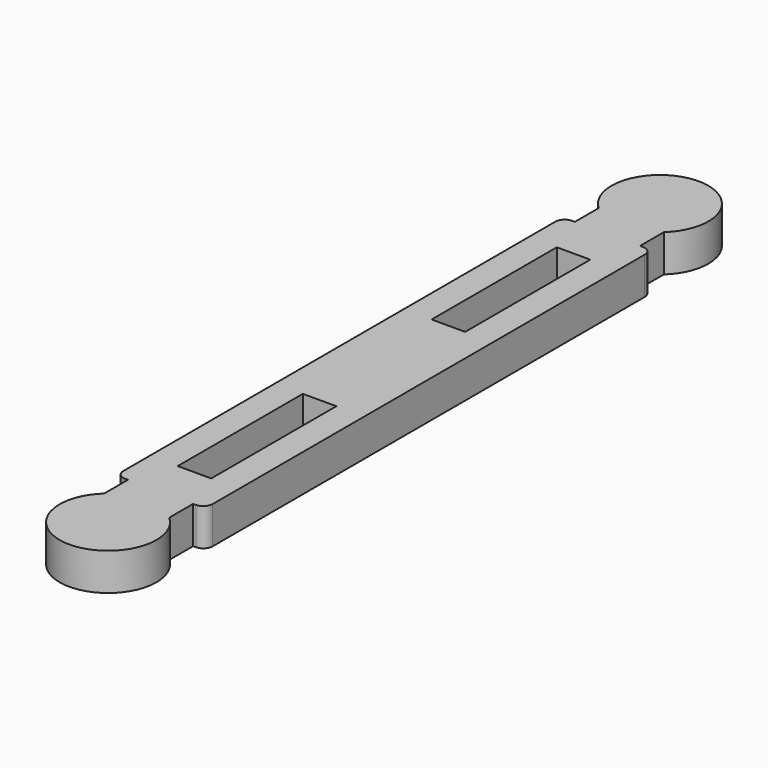
from build123d import *

# Parameters (mm, degrees)
F0_R     = 3.302
F1_DEPTH = 2.54
F3_DEPTH = 2.54
F4_W     = 6.096
F4_H     = 19.05
F5_DEPTH = 2.54
F6_R     = 0.635
F7_W     = 2.286
F7_H     = 10.668
F8_DEPTH = 25.4


with BuildPart() as f1:
    # F0 (on Top) → F1 (new body)
    with BuildSketch(Plane.XY):
        Circle(F0_R)
    extrude(amount=F1_DEPTH)

    # F2 (on face) → F3 (join, through all)
    with BuildSketch(Plane(origin=(0, 0, 0), x_dir=(1, 0, 0), z_dir=(0, 0, -1))):
        with BuildLine():
            ThreePointArc((2.2225, -2.442068), (0, -3.302), (-2.2225, -2.442068))
            Line((-2.2225, -2.442068), (-2.2225, -4.474068))
            Line((-2.2225, -4.474068), (2.2225, -4.474068))
            Line((2.2225, -4.474068), (2.2225, -2.442068))
        make_face()
    extrude(amount=-F3_DEPTH)

    # F4 (on Top) → F5 (join, through all)
    with BuildSketch(Plane.XY):
        with Locations((0, 13.999068)):
            Rectangle(F4_W, F4_H)
    extrude(amount=F5_DEPTH)

    # F6
    f6_edges = [f1.edges().sort_by_distance(p)[0] for p in [
        (3.048, 4.474068, 1.27),
        (-3.048, 4.474068, 1.27),
    ]]
    fillet(f6_edges, radius=F6_R)

    # F7 (on face) → F8 (cut)
    with BuildSketch(Plane.XY.offset(2.54)):
        with Locations((0, 12.7)):
            Rectangle(F7_W, F7_H)
    extrude(amount=-F8_DEPTH, mode=Mode.SUBTRACT)

    # F9: F1 across face


with BuildPart() as f1_1:
    add(f1.part)
    add(f1.part.mirror(Plane(origin=(0, 23.524068, 1.27), x_dir=(-1, 0, 0), z_dir=(0, 1, 0))))


solid = f1_1.part
